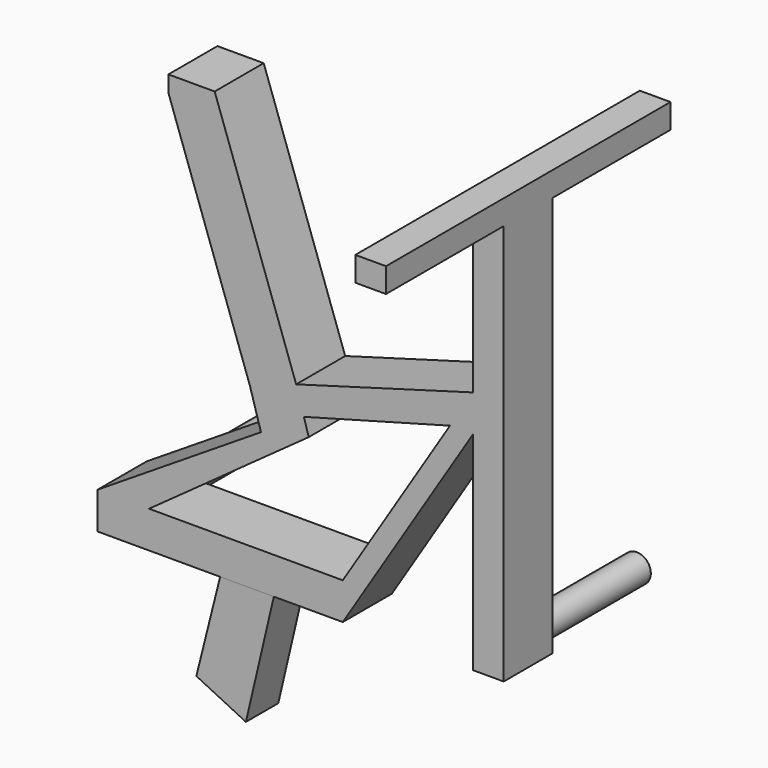
from build123d import *

# Parameters (mm, degrees)
F1_DEPTH  = 12.7
F2_W      = 30.48
F2_H      = 5.08
F3_DEPTH  = 6.35
F4_R      = 2.921
F5_DEPTH  = 26.035
F6_W      = 6.35
F6_H      = 43.0385274347
F7_DEPTH  = 12.7
F8_R      = 2.921
F9_DEPTH  = 26.035
F11_DEPTH = 8.382


with BuildPart() as f1:
    # F0 (on Front) → F1 (new body)
    with BuildSketch(Plane.XZ):
        Polygon((0, 7.62), (0, 0), (50.8, 0), (50.8, 7.62), (40.2175062395, 7.62), (10.666927397, 7.62), align=None)
        Polygon((50.8, 7.62), (50.8, 0), (77.7875, 43.0385274347), (77.7875, 50.6585274347), (73.0093451175, 43.0385274347), align=None)
        Polygon((33.8512634864, 29.1163723458), (0, 7.62), (10.666927397, 7.62), (35.0242672791, 25.1555861695), align=None)
        Polygon((31.5623094262, 36.8452967157), (33.8512634864, 29.1163723458), (42.7585980808, 34.7727455895), (42.746111008, 34.8149096691), (41.1448412363, 34.3797866252), (41.1448412363, 40.2217866252), align=None)
        Polygon((42.7585980808, 34.7727455895), (33.8512634864, 29.1163723458), (35.0242672791, 25.1555861695), (43.7469863398, 31.4353356192), align=None)
        Polygon((51.8942351591, 37.3007866252), (73.0093451175, 43.0385274347), (77.7875, 50.6585274347), (41.1448412363, 40.2217866252), (42.746111008, 34.8149096691), (42.8840007178, 34.8523793018), align=None)
        Polygon((14.6798598787, 84.7579557661), (31.5623094262, 36.8452967157), (41.1448412363, 40.2217866252), (24.2623916888, 88.1344456756), (24.2623916888, 84.7579557661), align=None)
        Polygon((42.746111008, 34.8149096691), (41.1448412363, 40.2217866252), (41.1448412363, 34.3797866252), align=None)
        Polygon((14.6798598787, 88.1344456756), (14.6798598787, 84.7579557661), (24.2623916888, 88.1344456756), align=None)
        Polygon((24.2623916888, 88.1344456756), (14.6798598787, 84.7579557661), (24.2623916888, 84.7579557661), align=None)
    extrude(amount=F1_DEPTH)

    # F2 (on face) → F3 (join)
    with BuildSketch(Plane.YZ.offset(77.7875)):
        Polygon((-12.7, 83.0544456756), (-12.7, 43.0385274347), (0, 43.0385274347), (0, 83.0544456756), (0, 88.1344456756), (-12.7, 88.1344456756), align=None)
        with Locations((-27.94, 85.5944456756)):
            Rectangle(F2_W, F2_H)
        with Locations((15.24, 85.5944456756)):
            Rectangle(F2_W, F2_H)
    extrude(amount=F3_DEPTH)

    # F4 (on face) → F5 (join)
    with BuildSketch(Plane(origin=(0, 0, 0), x_dir=(-1, 0, 0), z_dir=(0, 1, 0))):
        with Locations((-3.9929500781, 3.81)):
            Circle(F4_R)
    extrude(amount=F5_DEPTH)

    # F6 (on face) → F7 (join, through all)
    with BuildSketch(Plane.XZ.offset(12.7)):
        with Locations((80.9625, 21.5192637174)):
            Rectangle(F6_W, F6_H)
    extrude(amount=-F7_DEPTH)

    # F8 (on face) → F9 (join)
    with BuildSketch(Plane(origin=(0, 0, 0), x_dir=(-1, 0, 0), z_dir=(0, 1, 0))):
        with Locations((-80.7085, 3.81)):
            Circle(F8_R)
    extrude(amount=F9_DEPTH)


with BuildPart() as f11:
    # F10 (on face) → F11 (new body)
    with BuildSketch(Plane.XZ.offset(12.7)):
        Polygon((30.7334636985, -24.7319647125), (36.5205114313, 0), (25.4, 0), (20.4650110093, -19.7116281332), align=None)
    extrude(amount=-F11_DEPTH)


solid = Compound([f1.part, f11.part])
